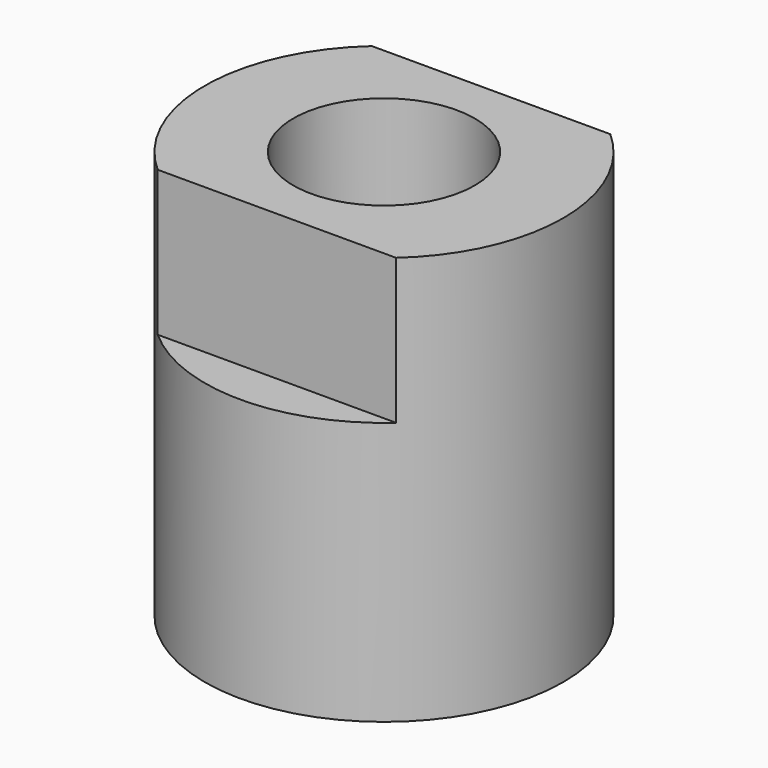
from build123d import *

# Parameters (mm, degrees)
F0_R     = 3.95
F1_DEPTH = 9
F3_DEPTH = 3.2
F4_R     = 2
F5_DEPTH = 8


with BuildPart() as f1:
    # F0 (on Top) → F1 (new body)
    with BuildSketch(Plane.XY):
        Circle(F0_R)
    extrude(amount=F1_DEPTH)

    # F2 (on face) → F3 (cut)
    with BuildSketch(Plane.XY.offset(9)):
        with BuildLine():
            Line((2.626785, -2.95), (-2.626785, -2.95))
            ThreePointArc((-2.626785, -2.95), (0, -3.95), (2.626785, -2.95))
        make_face()
        with BuildLine():
            ThreePointArc((2.626785, 2.95), (0, 3.95), (-2.626785, 2.95))
            Line((-2.626785, 2.95), (2.626785, 2.95))
        make_face()
    extrude(amount=-F3_DEPTH, mode=Mode.SUBTRACT)

    # F4 (on face) → F5 (cut)
    with BuildSketch(Plane.XY.offset(9)):
        Circle(F4_R)
    extrude(amount=-F5_DEPTH, mode=Mode.SUBTRACT)


solid = f1.part
